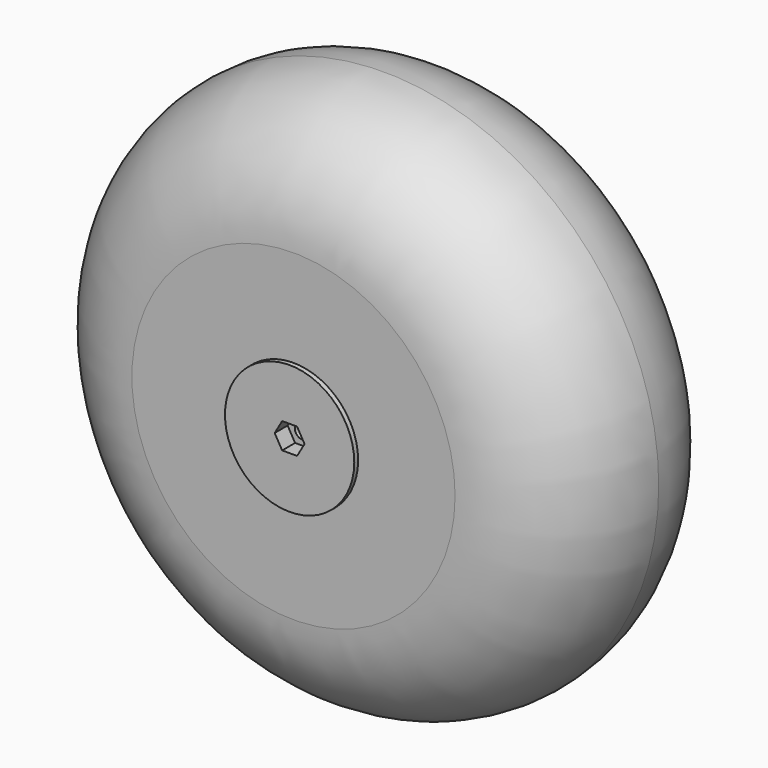
from build123d import *

# Parameters (mm, degrees)
PAD014_DEPTH           = 5
CYLINDER018_R          = 10
CYLINDER018_DEPTH      = 68.5
CYLINDER018_ROLL_ANGLE = 90
CYLINDER001_R          = 2.4
CYLINDER001_DEPTH      = 200
CYLINDER001_ROLL_ANGLE = 90
CYLINDER017_R          = 20
CYLINDER017_DEPTH      = 73
CYLINDER017_ROLL_ANGLE = 90
CYLINDER_R             = 50
CYLINDER_DEPTH         = 70
CYLINDER_ROLL_ANGLE    = 90
TORUS_R                = 35
TORUS_ROLL_ANGLE       = 90


with BuildPart() as pad014:
    # Sketch011 → Pad014 (new body)
    with BuildSketch(Plane.XZ.offset(36.5)):
        Polygon((4.618802, 0), (2.309401, 4), (-2.309401, 4), (-4.618802, 0), (-2.309401, -4), (2.309401, -4), align=None)
    extrude(amount=-PAD014_DEPTH)


with BuildPart() as cilindro018:
    # Cylinder018 → Cylinder018 (new body)
    with BuildSketch(Plane.XY):
        Circle(CYLINDER018_R)
    extrude(amount=CYLINDER018_DEPTH)


with BuildPart() as cilindro018_1:
    # Cylinder018 roll: moved
    add(cilindro018.part.rotate(Axis((0, 0, 0), (1, 0, 0)), CYLINDER018_ROLL_ANGLE))


with BuildPart() as cilindro018_2:
    # Cylinder018 placement: moved
    add(cilindro018_1.part.moved(Location((0, 100, 0))))


with BuildPart() as cilindro001:
    # Cylinder001 → Cylinder001 (new body)
    with BuildSketch(Plane.XY):
        Circle(CYLINDER001_R)
    extrude(amount=CYLINDER001_DEPTH)


with BuildPart() as cilindro001_1:
    # Cylinder001 roll: moved
    add(cilindro001.part.rotate(Axis((0, 0, 0), (1, 0, 0)), CYLINDER001_ROLL_ANGLE))


with BuildPart() as cilindro001_2:
    # Cylinder001 placement: moved
    add(cilindro001_1.part.moved(Location((0, 100, 0))))


with BuildPart() as cilindro017:
    # Cylinder017 → Cylinder017 (new body)
    with BuildSketch(Plane.XY):
        Circle(CYLINDER017_R)
    extrude(amount=CYLINDER017_DEPTH)


with BuildPart() as cilindro017_1:
    # Cylinder017 roll: moved
    add(cilindro017.part.rotate(Axis((0, 0, 0), (1, 0, 0)), CYLINDER017_ROLL_ANGLE))


with BuildPart() as cilindro017_2:
    # Cylinder017 placement: moved
    add(cilindro017_1.part.moved(Location((0, 36.5, 0))))


with BuildPart() as cilindro:
    # Cylinder → Cylinder (new body)
    with BuildSketch(Plane.XY):
        Circle(CYLINDER_R)
    extrude(amount=CYLINDER_DEPTH)


with BuildPart() as cilindro_1:
    # Cylinder roll: moved
    add(cilindro.part.rotate(Axis((0, 0, 0), (1, 0, 0)), CYLINDER_ROLL_ANGLE))


with BuildPart() as cilindro_2:
    # Cylinder placement: moved
    add(cilindro_1.part.moved(Location((0, 35, 0))))


with BuildPart() as cut017:
    # Torus → Torus (revolve)
    with BuildSketch(Plane.XZ):
        with Locations((50, 0)):
            Circle(TORUS_R)
    revolve(axis=Axis((0, 0, 0), (0, 0, 1)))


with BuildPart() as cut017_1:
    # Torus roll: moved
    add(cut017.part.rotate(Axis((0, 0, 0), (1, 0, 0)), TORUS_ROLL_ANGLE))


with BuildPart() as cut017_2:
    # Torus placement: moved
    add(cut017_1.part)

    # Fusion: union Cilindro
    add(cilindro_2.part)

    # Fusion016: union Cilindro017
    add(cilindro017_2.part)

    # Cut011: cut Cilindro001
    add(cilindro001_2.part, mode=Mode.SUBTRACT)

    # Cut012: cut Cilindro018
    add(cilindro018_2.part, mode=Mode.SUBTRACT)

    # Cut017: cut Pad014
    add(pad014.part, mode=Mode.SUBTRACT)


solid = cut017_2.part
